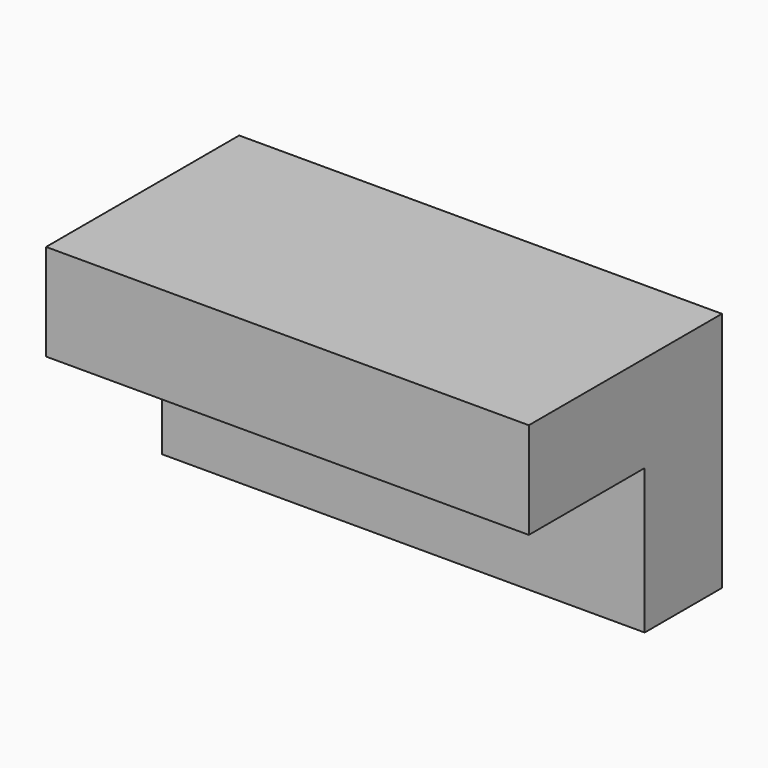
from build123d import *

# Parameters (mm, degrees)
SKETCH_W     = 10
SKETCH_H     = 5
PAD_DEPTH    = 5
SKETCH001_W  = 10
SKETCH001_H  = 3
POCKET_DEPTH = 3


with BuildPart() as part:
    # Sketch → Pad (new body)
    with BuildSketch(Plane.XY):
        with Locations((-5, 2.5)):
            Rectangle(SKETCH_W, SKETCH_H)
    extrude(amount=PAD_DEPTH)

    # Sketch001 → Pocket (cut)
    with BuildSketch(Plane.XY):
        with Locations((-5, 1.5)):
            Rectangle(SKETCH001_W, SKETCH001_H)
    extrude(amount=POCKET_DEPTH, mode=Mode.SUBTRACT)


solid = part.part
